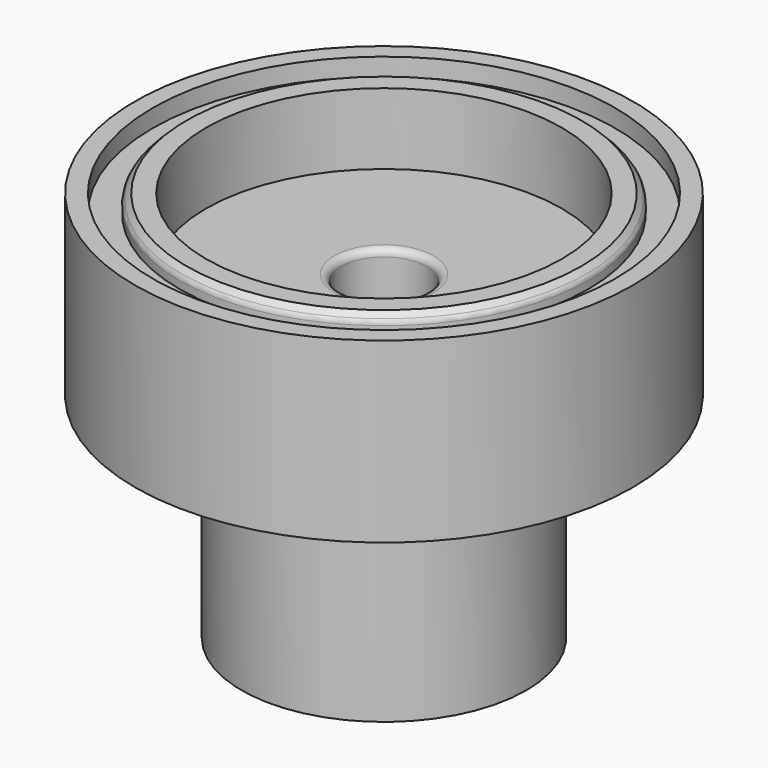
from build123d import *

# Parameters (mm, degrees)
F0_R      = 7
F1_DEPTH  = 5
F2_R      = 4
F3_DEPTH  = 6
F4_R      = 1.2
F5_DEPTH  = 9
F6_R      = 5
F7_DEPTH  = 2
F8_R      = 6.5
F8_R_2    = 5.75
F9_DEPTH  = 0.5
F10_SIZE  = 0.2
F11_R     = 0.2
F13_R     = 1.25
F14_DEPTH = 4.5


with BuildPart() as f1:
    # F0 (on Top) → F1 (new body)
    with BuildSketch(Plane.XY):
        Circle(F0_R)
    extrude(amount=F1_DEPTH)

    # F2 (on face) → F3 (join)
    with BuildSketch(Plane(origin=(0, 0, 0), x_dir=(1, 0, 0), z_dir=(0, 0, -1))):
        Circle(F2_R)
    extrude(amount=F3_DEPTH)

    # F4 (on face) → F5 (cut)
    with BuildSketch(Plane(origin=(0, 0, -6), x_dir=(1, 0, 0), z_dir=(0, 0, -1))):
        Circle(F4_R)
    extrude(amount=-F5_DEPTH, mode=Mode.SUBTRACT)

    # F6 (on face) → F7 (cut)
    with BuildSketch(Plane.XY.offset(5)):
        Circle(F6_R)
    extrude(amount=-F7_DEPTH, mode=Mode.SUBTRACT)

    # F8 (on face) → F9 (cut)
    with BuildSketch(Plane.XY.offset(5)):
        Circle(F8_R)
        Circle(F8_R_2, mode=Mode.SUBTRACT)
    extrude(amount=-F9_DEPTH, mode=Mode.SUBTRACT)

    # F10
    f10_edges = [f1.edges().sort_by_distance(p)[0] for p in [
        (-5.75, 0, 5),
    ]]
    chamfer(f10_edges, length=F10_SIZE)

    # F11
    f11_edges = [f1.edges().sort_by_distance(p)[0] for p in [
        (-5.75, 0, 4.8),
        (-1.2, 0, 3),
        (-1.2, 0, -6),
    ]]
    fillet(f11_edges, radius=F11_R)

    # F13 (on Right) → F14 (cut)
    with BuildSketch(Plane.YZ):
        with Locations((0, -3.5)):
            Circle(F13_R)
    extrude(amount=-F14_DEPTH, mode=Mode.SUBTRACT)


solid = f1.part
